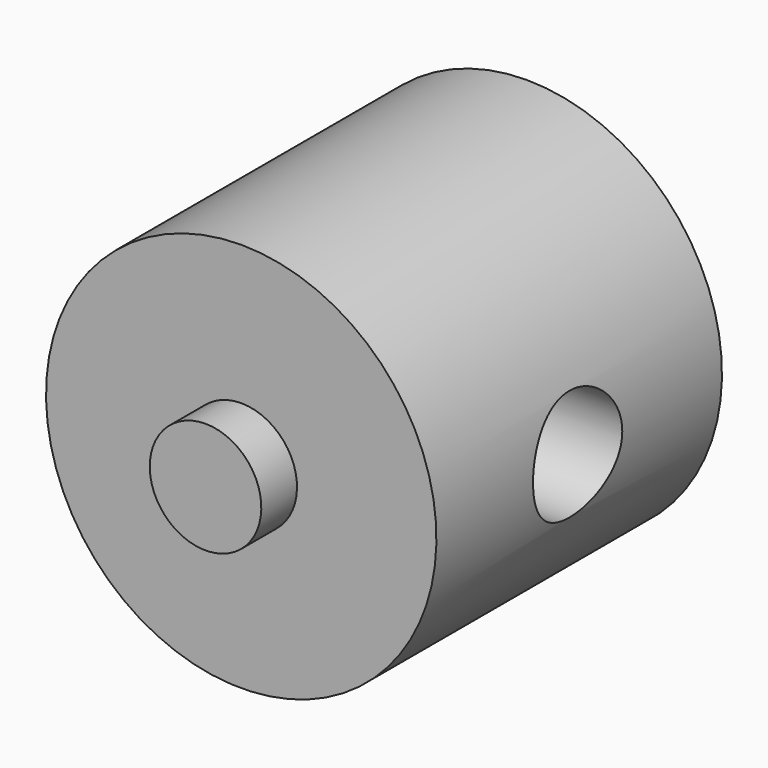
from build123d import *

# Parameters (mm, degrees)
F2_R     = 3.175
F3_DEPTH = 19.05


with BuildPart() as f1:
    # F0 (on Right) → F1 (revolve)
    with BuildSketch(Plane.YZ):
        Polygon((-11.863786, 3.175), (-11.863786, 0), (13.536214, 0), (13.536214, 3.175), (10.996214, 3.175), (10.996214, 11.1125), (-9.323786, 11.1125), (-9.323786, 3.175), align=None)
    revolve(axis=Axis((0, 2.995029, 0), (0, 1, 0)))

    # F2 (on Right) → F3 (cut, symmetric)
    with BuildSketch(Plane.YZ):
        with Locations((0.725993, 0)):
            Circle(F2_R)
    extrude(amount=F3_DEPTH, both=True, mode=Mode.SUBTRACT)


solid = f1.part
